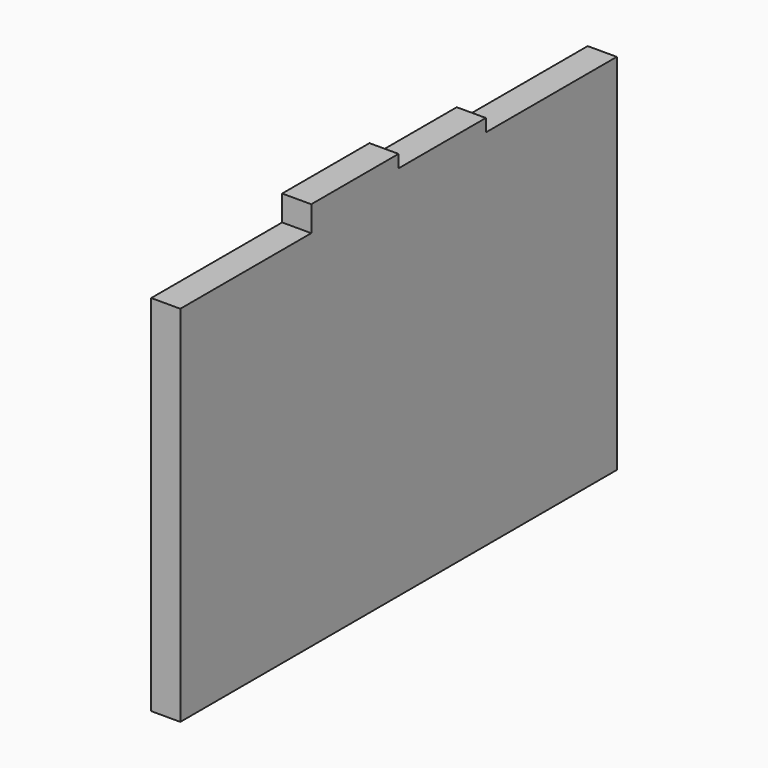
from build123d import *

# Parameters (mm, degrees)
F0_W     = 300
F0_H     = 200
F1_DEPTH = 16
F3_DEPTH = 16


with BuildPart() as f1:
    # F0 (on Right) → F1 (new body)
    with BuildSketch(Plane.YZ):
        with Locations((150, 100)):
            Rectangle(F0_W, F0_H)
    extrude(amount=F1_DEPTH)

    # F2 (on face) → F3 (join)
    with BuildSketch(Plane(origin=(0, 0, 0), x_dir=(0, -1, 0), z_dir=(-1, 0, 0))):
        Polygon((-210, 207), (-210, 200), (-90, 200), (-90, 214), (-150, 214), (-150, 207), align=None)
    extrude(amount=-F3_DEPTH)


solid = f1.part
